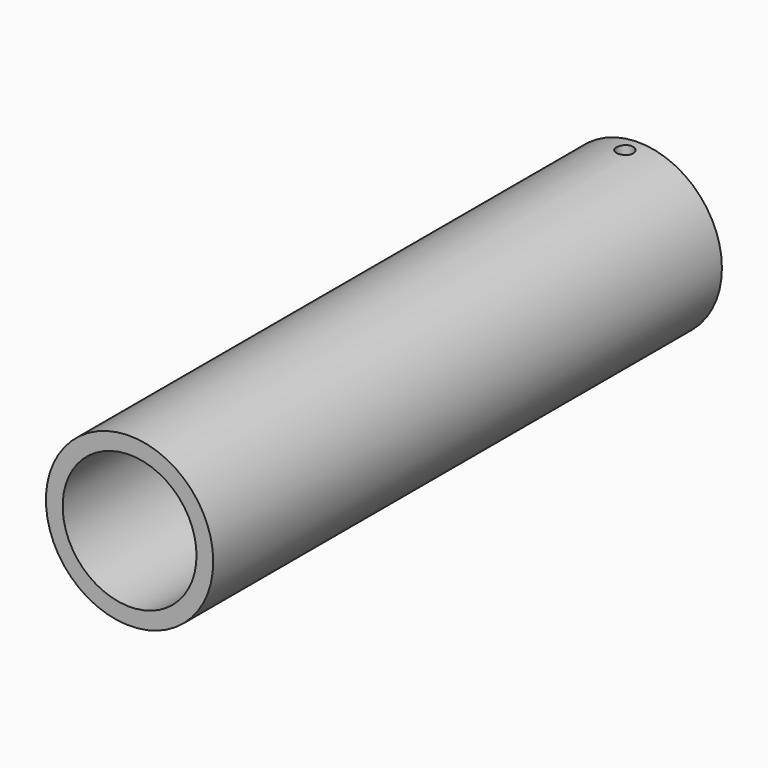
from build123d import *

# Parameters (mm, degrees)
SKETCH001_R  = 2.5
PAD001_DEPTH = 30
SKETCH_R     = 25
SKETCH_R_2   = 20
PAD_DEPTH    = 95


with BuildPart() as pad001:
    # Sketch001 → Pad001 (new body, symmetric)
    with BuildSketch(Plane.XY):
        with Locations((0, 90)):
            Circle(SKETCH001_R)
    extrude(amount=PAD001_DEPTH, both=True)


with BuildPart() as cut:
    # Sketch → Pad (new body, symmetric)
    with BuildSketch(Plane.XZ):
        Circle(SKETCH_R)
        Circle(SKETCH_R_2, mode=Mode.SUBTRACT)
    extrude(amount=PAD_DEPTH, both=True)

    # Cut: cut Pad001
    add(pad001.part, mode=Mode.SUBTRACT)


solid = cut.part
